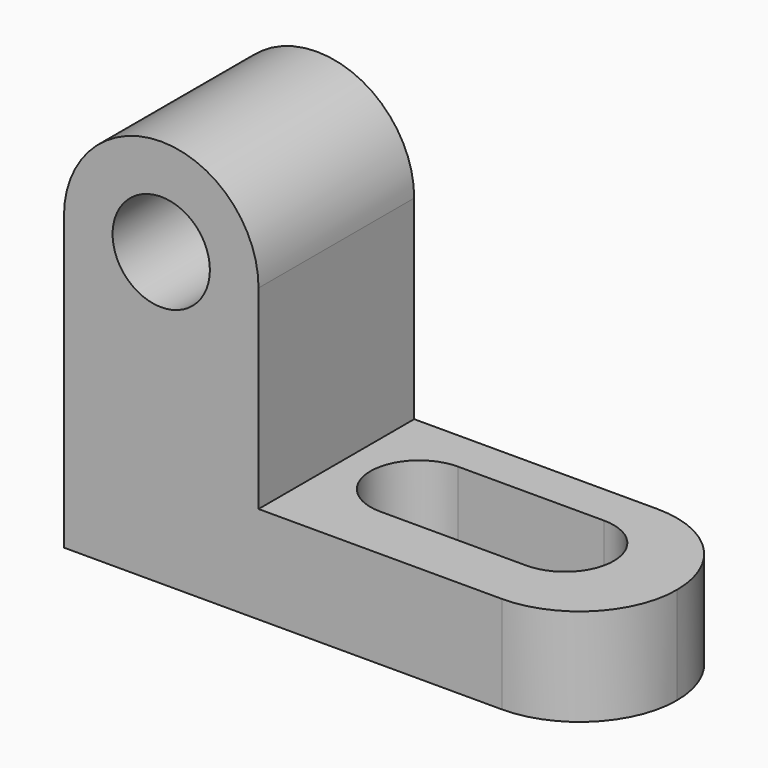
from build123d import *

# Parameters (mm, degrees)
F1_DEPTH = 25.4
F2_R     = 6.35
F3_DEPTH = 25.4
F5_DEPTH = 25.4
F7_DEPTH = 12.701


with BuildPart() as f1:
    # F0 (on Front) → F1 (new body)
    with BuildSketch(Plane.XZ):
        with BuildLine():
            Line((-47.538182, 38.1), (-47.538182, 0))
            Line((-47.538182, 0), (22.311818, 0))
            Line((22.311818, 0), (22.311818, 12.7))
            Line((22.311818, 12.7), (-22.138182, 12.7))
            Line((-22.138182, 12.7), (-22.138182, 38.1))
            ThreePointArc((-22.138182, 38.1), (-34.838182, 50.8), (-47.538182, 38.1))
        make_face()
    extrude(amount=F1_DEPTH)

    # F2 (on face) → F3 (cut)
    with BuildSketch(Plane.XZ.offset(25.4)):
        with Locations((-34.838182, 38.1)):
            Circle(F2_R)
    extrude(amount=-F3_DEPTH, mode=Mode.SUBTRACT)

    # F4 (on face) → F5 (cut)
    with BuildSketch(Plane.XY.offset(12.7)):
        with BuildLine():
            ThreePointArc((9.611818, 0), (18.592074, -3.719744), (22.311818, -12.7))
            Line((22.311818, -12.7), (22.311818, 0))
            Line((22.311818, 0), (9.611818, 0))
        make_face()
        with BuildLine():
            ThreePointArc((22.311818, -12.7), (18.592074, -21.680256), (9.611818, -25.4))
            Line((9.611818, -25.4), (22.311818, -25.4))
            Line((22.311818, -25.4), (22.311818, -12.7))
        make_face()
    extrude(amount=-F5_DEPTH, mode=Mode.SUBTRACT)

    # F6 (on face) → F7 (cut, through all)
    with BuildSketch(Plane.XY.offset(12.7)):
        with BuildLine():
            ThreePointArc((-12.100862, -18.09319), (-7.610734, -16.233318), (-5.750862, -11.74319))
            ThreePointArc((-5.750862, -11.74319), (-7.610734, -7.253062), (-12.100862, -5.39319))
            Line((-12.100862, -5.39319), (-12.100862, -18.09319))
        make_face()
        with BuildLine():
            Line((-12.100862, -18.09319), (-12.100862, -5.39319))
            ThreePointArc((-12.100862, -5.39319), (-18.450862, -11.74319), (-12.100862, -18.09319))
        make_face()
        with BuildLine():
            ThreePointArc((-12.100862, -5.39319), (-7.610734, -7.253062), (-5.750862, -11.74319))
            ThreePointArc((-5.750862, -11.74319), (-7.610734, -16.233318), (-12.100862, -18.09319))
            Line((-12.100862, -18.09319), (6.949138, -18.09319))
            ThreePointArc((6.949138, -18.09319), (0.599138, -11.74319), (6.949138, -5.39319))
            Line((6.949138, -5.39319), (-12.100862, -5.39319))
        make_face()
        with BuildLine():
            Line((6.949138, -18.09319), (6.949138, -5.39319))
            ThreePointArc((6.949138, -5.39319), (0.599138, -11.74319), (6.949138, -18.09319))
        make_face()
        with BuildLine():
            ThreePointArc((13.299138, -11.74319), (11.439266, -7.253062), (6.949138, -5.39319))
            Line((6.949138, -5.39319), (6.949138, -18.09319))
            ThreePointArc((6.949138, -18.09319), (11.439266, -16.233318), (13.299138, -11.74319))
        make_face()
    extrude(amount=-F7_DEPTH, mode=Mode.SUBTRACT)


solid = f1.part
